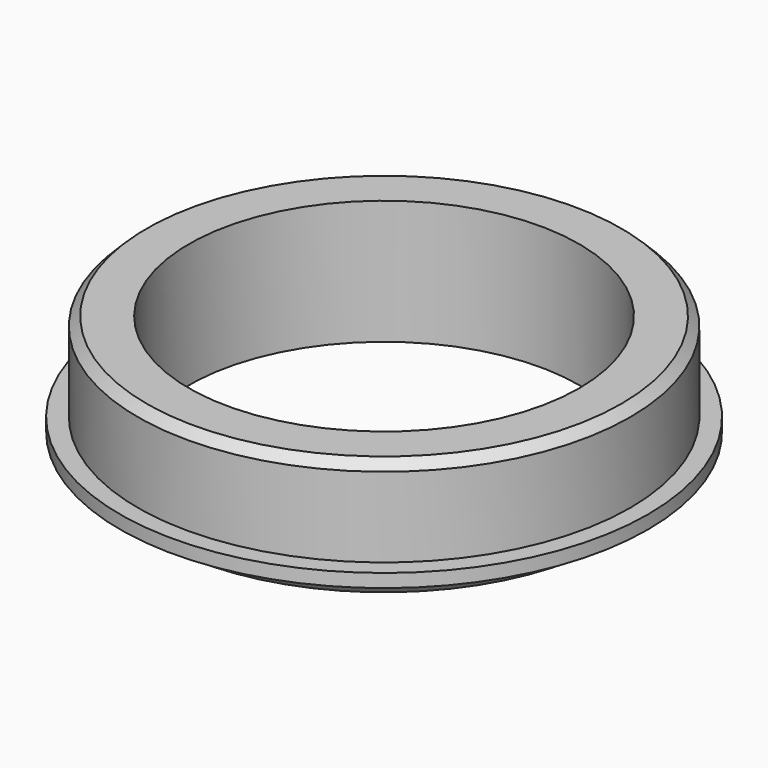
from build123d import *

# Parameters (mm, degrees)
F2_R     = 22
F3_DEPTH = 25
F4_SIZE  = 1


with BuildPart() as f1:
    # F0 (on Front) → F1 (revolve)
    with BuildSketch(Plane.XZ):
        Polygon((0, 14), (0, 0), (25.75, 0), (27.75, 2.5), (29.75, 2.5), (29.75, 4), (27.75, 4), (27.75, 14), align=None)
    revolve(axis=Axis((0, 0, 7), (0, 0, -1)))

    # F2 (on face) → F3 (cut)
    with BuildSketch(Plane.XY.offset(14)):
        Circle(F2_R)
    extrude(amount=-F3_DEPTH, mode=Mode.SUBTRACT)

    # F4
    f4_edges = [f1.edges().sort_by_distance(p)[0] for p in [
        (-27.75, 0, 14),
    ]]
    chamfer(f4_edges, length=F4_SIZE)


solid = f1.part
